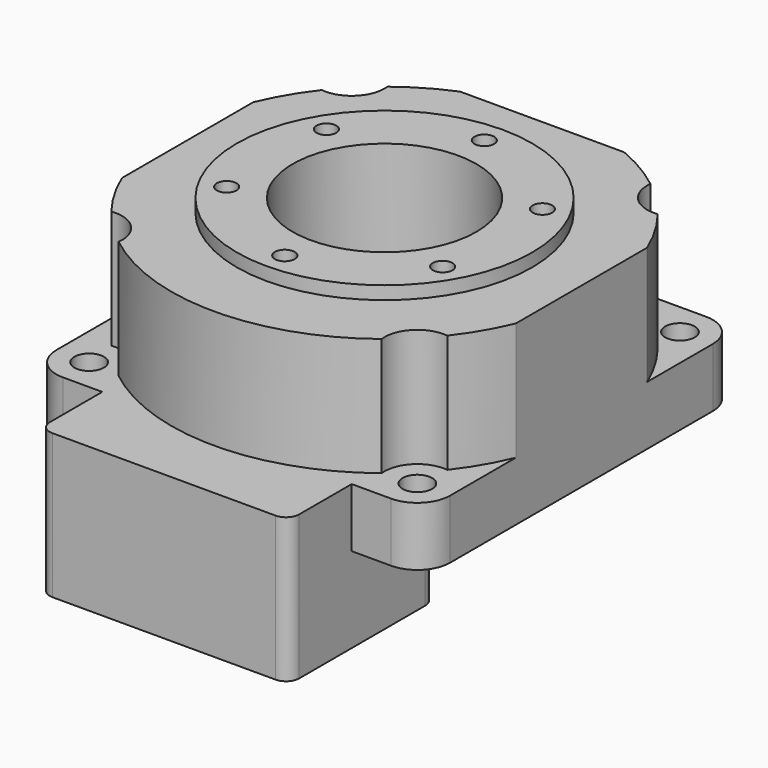
from build123d import *

# Parameters (mm, degrees)
SKETCH_W           = 60
SKETCH_H           = 60
SKETCH_R           = 2.25
PAD_DEPTH          = 9
FILLET_R           = 5
PAD001_DEPTH       = 18
SKETCH002_R        = 22.5
PAD002_DEPTH       = 2
SKETCH003_R        = 1.5
POCKET_DEPTH       = 5
POLARPATTERN_COUNT = 6
SKETCH004_R        = 14
POCKET001_DEPTH    = 29.001
SKETCH005_W        = 38
SKETCH005_H        = 28
PAD003_DEPTH       = 13
SKETCH006_W        = 38
SKETCH006_H        = 12
PAD004_DEPTH       = 9
FILLET001_R        = 2


with BuildPart() as part:
    # Sketch → Pad (new body)
    with BuildSketch(Plane.XY):
        Rectangle(SKETCH_W, SKETCH_H)
        with Locations((-25, 25)):
            Circle(SKETCH_R, mode=Mode.SUBTRACT)
        with Locations((25, 25)):
            Circle(SKETCH_R, mode=Mode.SUBTRACT)
        with Locations((25, -25)):
            Circle(SKETCH_R, mode=Mode.SUBTRACT)
        with Locations((-25, -25)):
            Circle(SKETCH_R, mode=Mode.SUBTRACT)
    extrude(amount=PAD_DEPTH)

    # Fillet
    fillet_edges = [part.edges().sort_by_distance(p)[0] for p in [
        (30, 30, 4.5),
        (-30, 30, 4.5),
        (-30, -30, 4.5),
        (30, -30, 4.5),
    ]]
    fillet(fillet_edges, radius=FILLET_R)

    # Sketch001 (on DatumPlane) → Pad001 (join)
    with BuildSketch(Plane.XY.offset(9)):
        with BuildLine():
            ThreePointArc((-25.590061, 20.034939), (-28.049199, 16.416225), (-30, 12.5))
            Line((-30, 12.5), (-30, -12.5))
            ThreePointArc((-30, -12.5), (-28.049199, -16.416225), (-25.590061, -20.034939))
            ThreePointArc((-20.034939, -25.590061), (-21.464466, -21.464466), (-25.590061, -20.034939))
            ThreePointArc((-20.034939, -25.590061), (0, -32.5), (20.034939, -25.590061))
            ThreePointArc((25.590061, -20.034939), (21.464466, -21.464466), (20.034939, -25.590061))
            ThreePointArc((25.590061, -20.034939), (28.049199, -16.416225), (30, -12.5))
            Line((30, -12.5), (30, 12.5))
            ThreePointArc((30, 12.5), (28.049199, 16.416225), (25.590061, 20.034939))
            ThreePointArc((20.034939, 25.590061), (21.464466, 21.464466), (25.590061, 20.034939))
            ThreePointArc((20.034939, 25.590061), (16.416225, 28.049199), (12.5, 30))
            Line((12.5, 30), (-12.5, 30))
            ThreePointArc((-12.5, 30), (-16.416225, 28.049199), (-20.034939, 25.590061))
            ThreePointArc((-25.590061, 20.034939), (-21.464466, 21.464466), (-20.034939, 25.590061))
        make_face()
    extrude(amount=PAD001_DEPTH)

    # Sketch002 (on Face17 of Pad001) → Pad002 (join)
    with BuildSketch(Plane.XY.offset(27)):
        Circle(SKETCH002_R)
    extrude(amount=PAD002_DEPTH)

    # Sketch003 (on Face32 of Pad002) → Pocket (cut)
    with BuildSketch(Plane.XY.offset(29)):
        with Locations((0, 19)):
            Circle(SKETCH003_R)
    pocket = extrude(amount=-POCKET_DEPTH, mode=Mode.SUBTRACT)

    # PolarPattern: Pocket ×6 about axis
    polarpattern_axis = Axis((0, 0, 29), (0, 0, 1))
    for i in range(1, POLARPATTERN_COUNT):
        add(pocket.rotate(polarpattern_axis, i * 360 / POLARPATTERN_COUNT), mode=Mode.SUBTRACT)

    # Sketch004 (on Face32 of PolarPattern) → Pocket001 (cut, through all)
    with BuildSketch(Plane.XY.offset(29)):
        Circle(SKETCH004_R)
    extrude(amount=-POCKET001_DEPTH, mode=Mode.SUBTRACT)

    # Sketch005 (on Face1 of Pocket001) → Pad003 (join)
    with BuildSketch(Plane(origin=(0, 0, 0), x_dir=(1, 0, 0), z_dir=(0, 0, -1))):
        with Locations((0, 28)):
            Rectangle(SKETCH005_W, SKETCH005_H)
    extrude(amount=PAD003_DEPTH)

    # Sketch006 (on Face21 of Pad003) → Pad004 (join)
    with BuildSketch(Plane(origin=(0, 0, 9), x_dir=(1, 0, 0), z_dir=(0, 0, -1))):
        with Locations((0, 36)):
            Rectangle(SKETCH006_W, SKETCH006_H)
    extrude(amount=PAD004_DEPTH)

    # Fillet001
    fillet001_edges = [part.edges().sort_by_distance(p)[0] for p in [
        (-19, -14, -6.5),
        (-19, -42, -2),
        (19, -42, -2),
        (19, -14, -6.5),
    ]]
    fillet(fillet001_edges, radius=FILLET001_R)


solid = part.part
